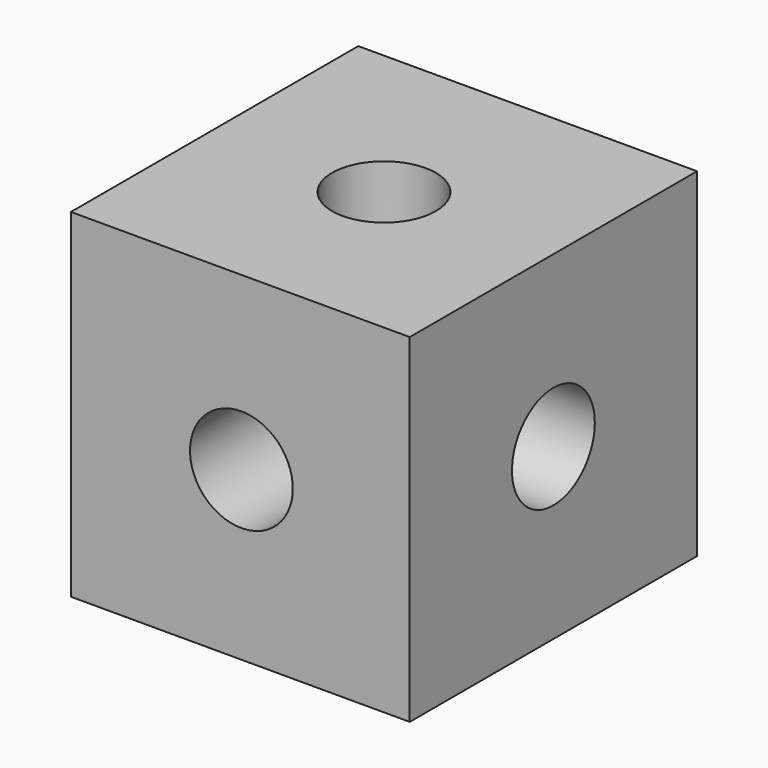
from build123d import *

# Parameters (mm, degrees)
F0_W      = 1270
F0_H      = 1270
F1_DEPTH  = 76.2
F1_FACE_W = 1270
F1_FACE_H = 1270
F2_DEPTH  = 1270
F3_R      = 194.135033
F4_DEPTH  = 40.64
F4_FACE_R = 194.135033
F5_DEPTH  = 1397
F6_R      = 192.704976
F7_DEPTH  = 2057.4
F8_R      = 194.520283
F9_DEPTH  = 1717.04


with BuildPart() as f1:
    # F0 (on Front) → F1 (new body)
    with BuildSketch(Plane.XZ):
        with Locations((582.012902, 615.979133)):
            Rectangle(F0_W, F0_H)
    extrude(amount=F1_DEPTH)

    # F1_face (on face) → F2 (join)
    with BuildSketch(Plane(origin=(582.012902, 0, 615.979133), x_dir=(1, 0, 0), z_dir=(0, 1, 0))):
        Rectangle(F1_FACE_W, F1_FACE_H)
        Rectangle(F1_FACE_W, F1_FACE_H)
    extrude(amount=F2_DEPTH)

    # F3 (on face) → F4 (join)
    with BuildSketch(Plane.YZ.offset(1217.012902)):
        with Locations((596.9, 615.979133)):
            Circle(F3_R)
    extrude(amount=F4_DEPTH)

    # F4_face (on face) → F5 (cut)
    with BuildSketch(Plane(origin=(1257.652902, 596.9, 615.979133), x_dir=(0, 1, 0), z_dir=(1, 0, 0))):
        Circle(F4_FACE_R)
    extrude(amount=-F5_DEPTH, mode=Mode.SUBTRACT)

    # F6 (on face) → F7 (cut)
    with BuildSketch(Plane(origin=(0, 1270, 0), x_dir=(-1, 0, 0), z_dir=(0, 1, 0))):
        with Locations((-585.989118, 608.118951)):
            Circle(F6_R)
    extrude(amount=-F7_DEPTH, mode=Mode.SUBTRACT)

    # F8 (on face) → F9 (cut)
    with BuildSketch(Plane(origin=(0, 0, -19.020867), x_dir=(1, 0, 0), z_dir=(0, 0, -1))):
        with Locations((583.487809, -594.875395)):
            Circle(F8_R)
    extrude(amount=-F9_DEPTH, mode=Mode.SUBTRACT)


solid = f1.part
